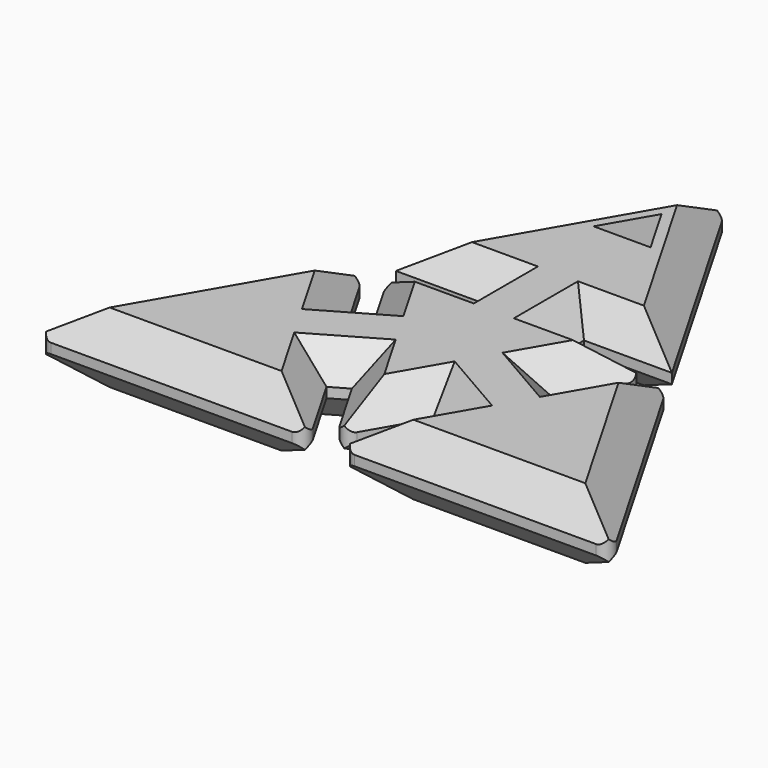
from build123d import *

# Parameters (mm, degrees)
F0_W     = 5
F0_H     = 2
F1_DEPTH = 3.5
F2_SIZE  = 3
F3_R     = 1
F6_DEPTH = 9.2


with BuildPart() as f1:
    # F0 (on Top) → F1 (new body)
    with BuildSketch(Plane.XY):
        Polygon((-4.0418434781, -8.107062112), (0, -15.1077403724), (0, 7.5538701862), (-5, 7.5538701862), (-13.0836869563, 7.5538701862), (-9.0418434781, 0.5531919258), (-6.5418434781, -3.7769350931), align=None)
        Polygon((0, 7.5538701862), (0, -15.1077403724), (4.0418434781, -8.107062112), (6.5418434781, -3.7769350931), (9.0418434781, 0.5531919258), (13.0836869563, 7.5538701862), (5, 7.5538701862), align=None)
        Polygon((-10.7738942857, -0.4468080742), (-8.2738942857, -4.7769350931), (-6.5418434781, -3.7769350931), (-9.0418434781, 0.5531919258), align=None)
        Polygon((-8.2738942857, -4.7769350931), (-5.7738942857, -9.107062112), (-4.0418434781, -8.107062112), (-6.5418434781, -3.7769350931), align=None)
        Polygon((8.2738942857, -4.7769350931), (10.7738942857, -0.4468080742), (9.0418434781, 0.5531919258), (6.5418434781, -3.7769350931), align=None)
        Polygon((4.0418434781, -8.107062112), (5.7738942857, -9.107062112), (8.2738942857, -4.7769350931), (6.5418434781, -3.7769350931), align=None)
        with Locations((2.5, 8.5538701862)):
            Rectangle(F0_W, F0_H)
        with Locations((-2.5, 8.5538701862)):
            Rectangle(F0_W, F0_H)
        Polygon((-28.9386550611, -16.7077402895), (-1.3856406939, -16.7077402895), (-5.7738942857, -9.107062112), (-8.2738942857, -4.7769350931), (-10.7738942857, -0.4468080742), (-15.1621478775, 7.1538701033), align=None)
        Polygon((5.7738942857, -9.107062112), (1.3856406939, -16.7077402895), (28.9386550611, -16.7077402895), (15.1621478775, 7.1538701033), (10.7738942857, -0.4468080742), (8.2738942857, -4.7769350931), align=None)
        Polygon((5, 9.5538701862), (13.7765071836, 9.5538701862), (0, 33.415480579), (0, 9.5538701862), align=None)
        Polygon((0, 9.5538701862), (0, 33.415480579), (-13.7765071836, 9.5538701862), (-5, 9.5538701862), align=None)
    extrude(amount=F1_DEPTH)

    # F2
    f2_edges = [f1.edges().sort_by_distance(p)[0] for p in [
        (-11.062765, 4.053531, 3.5),
        (-9.907869, 0.053192, 3.5),
        (-12.968021, 3.353531, 3.5),
        (-22.050401, -4.776935, 3.5),
        (-15.162148, -16.70774, 3.5),
        (-3.579767, -12.907401, 3.5),
        (-4.907869, -8.607062, 3.5),
        (-2.020922, -11.607401, 3.5),
        (2.020922, -11.607401, 3.5),
        (4.907869, -8.607062, 3.5),
        (3.579767, -12.907401, 3.5),
        (15.162148, -16.70774, 3.5),
        (22.050401, -4.776935, 3.5),
        (12.968021, 3.353531, 3.5),
        (9.907869, 0.053192, 3.5),
        (11.062765, 4.053531, 3.5),
        (9.041843, 7.55387, 3.5),
        (5, 8.55387, 3.5),
        (9.388254, 9.55387, 3.5),
        (6.888254, 21.484675, 3.5),
        (-6.888254, 21.484675, 3.5),
        (-9.388254, 9.55387, 3.5),
        (-5, 8.55387, 3.5),
        (-9.041843, 7.55387, 3.5),
    ]]
    chamfer(f2_edges, length=F2_SIZE)

    # F3
    f3_edges = [f1.edges().sort_by_distance(p)[0] for p in [
        (-28.938655, -16.70774, 0.25),
        (28.938655, -16.70774, 0.25),
        (0, 33.415481, 0.25),
        (-15.162148, 7.15387, 0.25),
        (15.162148, 7.15387, 0.25),
        (-1.385641, -16.70774, 0.25),
        (1.385641, -16.70774, 0.25),
        (-13.083687, 7.55387, 0.25),
        (13.083687, 7.55387, 0.25),
        (0, -15.10774, 0.25),
    ]]
    fillet(f3_edges, radius=F3_R)

    # F4: F1 across plane


with BuildPart() as f1_1:
    add(f1.part)
    add(f1.part.mirror(Plane.XY))

    # F5 (on face) → F6 (cut)
    with BuildSketch(Plane.XY.offset(3.5)):
        Polygon((-2.8427077909, 20.5582287163), (2.8427077909, 20.5582287163), (0, 25.4819430411), align=None)
    extrude(amount=-F6_DEPTH, mode=Mode.SUBTRACT)


solid = f1_1.part
